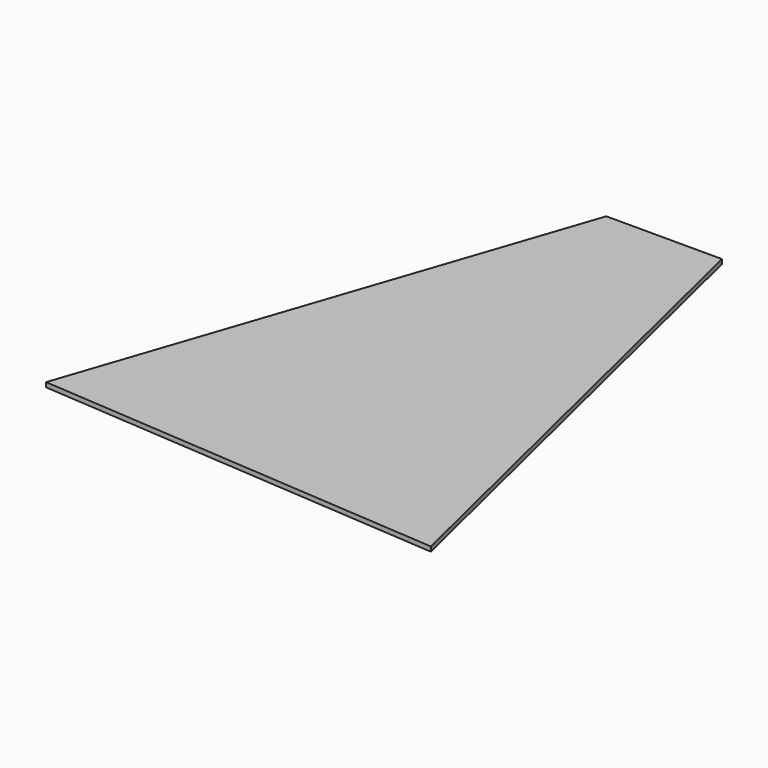
from build123d import *

# Parameters (mm, degrees)
F1_DEPTH = 5.08


with BuildPart() as f1:
    # F0 (on Top) → F1 (new body)
    with BuildSketch(Plane.XY):
        Polygon((208.250469, -296.920667), (69.722807, 275.845433), (-57.277193, 275.845433), (-240.021453, -264.711177), align=None)
    extrude(amount=-F1_DEPTH)


solid = f1.part
